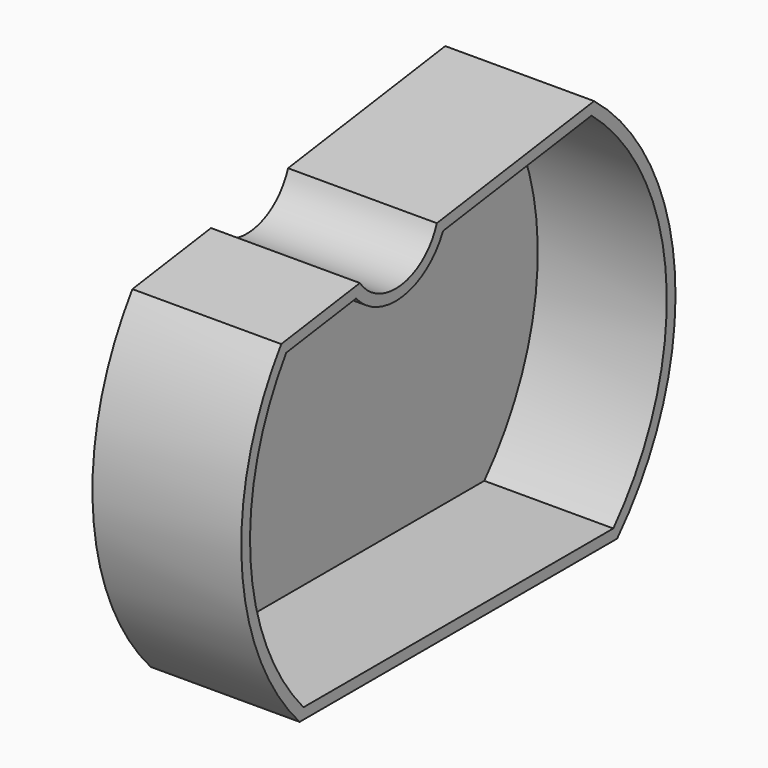
from build123d import *

# Parameters (mm, degrees)
F1_DEPTH = 15
F2_DEPTH = 2


with BuildPart() as f1:
    # F0 (on Right) → F1 (new body)
    with BuildSketch(Plane.YZ):
        with BuildLine():
            Line((-18.500151, -15.885202), (21.499849, -15.885202))
            ThreePointArc((21.499849, -15.885202), (28.776178, 4.748888), (18.594223, 24.114798))
            Line((18.594223, 24.114798), (-1.211139, 21.331336))
            ThreePointArc((-1.211139, 21.331336), (-5.644923, 17.678725), (-10.913745, 19.967723))
            Line((-10.913745, 19.967723), (-20.816425, 18.575992))
            ThreePointArc((-20.816425, 18.575992), (-25.786783, 0.933475), (-18.500151, -15.885202))
        make_face()
        with BuildLine():
            ThreePointArc((-18.016041, -14.785202), (-24.689377, 1.008996), (-20.187486, 17.553574))
            Line((-20.187486, 17.553574), (-11.387244, 18.790367))
            ThreePointArc((-11.387244, 18.790367), (-5.491832, 16.589431), (-0.431459, 20.330102))
            Line((-0.431459, 20.330102), (18.271464, 22.958627))
            ThreePointArc((18.271464, 22.958627), (27.678942, 4.670945), (21.015738, -14.785202))
            Line((21.015738, -14.785202), (-18.016041, -14.785202))
        make_face(mode=Mode.SUBTRACT)
    extrude(amount=F1_DEPTH)

    # F0 (on Right) → F2 (join)
    with BuildSketch(Plane.YZ):
        with BuildLine():
            Line((-11.387244, 18.790367), (-20.187486, 17.553574))
            ThreePointArc((-20.187486, 17.553574), (-24.689377, 1.008996), (-18.016041, -14.785202))
            Line((-18.016041, -14.785202), (21.015738, -14.785202))
            ThreePointArc((21.015738, -14.785202), (27.678942, 4.670945), (18.271464, 22.958627))
            Line((18.271464, 22.958627), (-0.431459, 20.330102))
            ThreePointArc((-0.431459, 20.330102), (-5.491832, 16.589431), (-11.387244, 18.790367))
        make_face()
    extrude(amount=F2_DEPTH)


solid = f1.part
